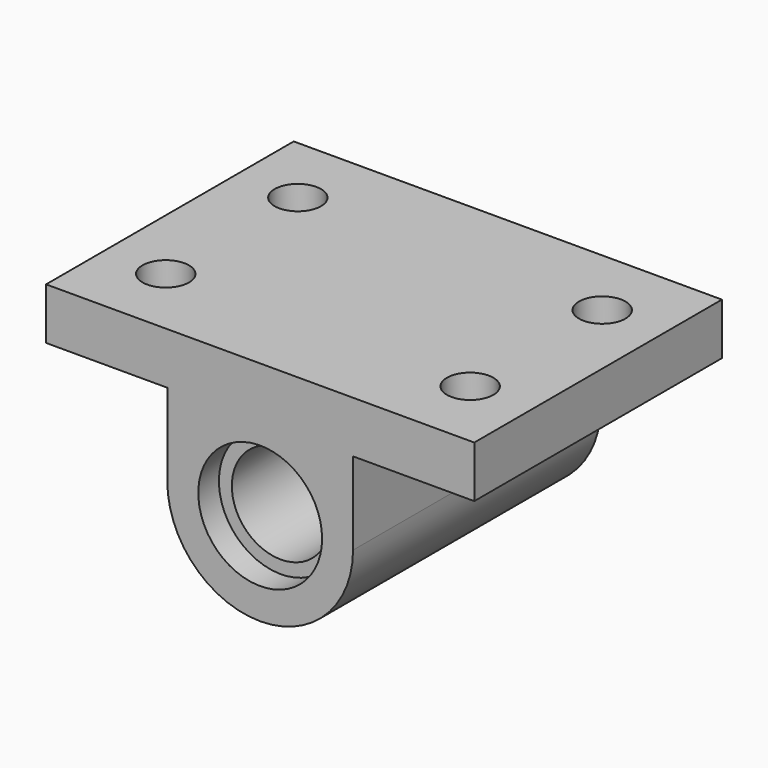
from build123d import *

# Parameters (mm, degrees)
F0_R     = 24
F0_R_2   = 19
F1_DEPTH = 60
F2_R     = 24
F2_R_2   = 19
F3_DEPTH = 10
F4_R     = 24
F4_R_2   = 19
F5_DEPTH = 10
F6_R     = 9
F7_DEPTH = 25


with BuildPart() as f1:
    # F0 (on Front) → F1 (new body, symmetric)
    with BuildSketch(Plane.XZ):
        with BuildLine():
            Line((83, 13.3241766691), (83, 33.3241766691))
            Line((83, 33.3241766691), (-83, 33.3241766691))
            Line((-83, 33.3241766691), (-83, 13.3241766691))
            Line((-83, 13.3241766691), (-36, 13.3241766691))
            Line((-36, 13.3241766691), (-36, -18.6758233309))
            ThreePointArc((-36, -18.6758233309), (0, -54.6758233309), (36, -18.6758233309))
            Line((36, -18.6758233309), (36, 13.3241766691))
            Line((36, 13.3241766691), (83, 13.3241766691))
        make_face()
        with Locations((0, -18.6758233309)):
            Circle(F0_R, mode=Mode.SUBTRACT)
        with Locations((0, -18.6758233309)):
            Circle(F0_R)
        with Locations((0, -18.6758233309)):
            Circle(F0_R_2, mode=Mode.SUBTRACT)
    extrude(amount=F1_DEPTH, both=True)

    # F2 (on face) → F3 (cut)
    with BuildSketch(Plane.XZ.offset(60)):
        with Locations((0, -18.6758233309)):
            Circle(F2_R)
        with Locations((0, -18.6758233309)):
            Circle(F2_R_2, mode=Mode.SUBTRACT)
    extrude(amount=-F3_DEPTH, mode=Mode.SUBTRACT)

    # F4 (on face) → F5 (cut)
    with BuildSketch(Plane(origin=(0, 60, 0), x_dir=(-1, 0, 0), z_dir=(0, 1, 0))):
        with Locations((0, -18.6758233309)):
            Circle(F4_R)
        with Locations((0, -18.6758233309)):
            Circle(F4_R_2, mode=Mode.SUBTRACT)
    extrude(amount=-F5_DEPTH, mode=Mode.SUBTRACT)

    # F6 (on face) → F7 (cut)
    with BuildSketch(Plane.XY.offset(33.3241766691)):
        with Locations((-59, -32)):
            Circle(F6_R)
        with Locations((-59, 32)):
            Circle(F6_R)
        with Locations((59, -32)):
            Circle(F6_R)
        with Locations((59, 32)):
            Circle(F6_R)
    extrude(amount=-F7_DEPTH, mode=Mode.SUBTRACT)


solid = f1.part
